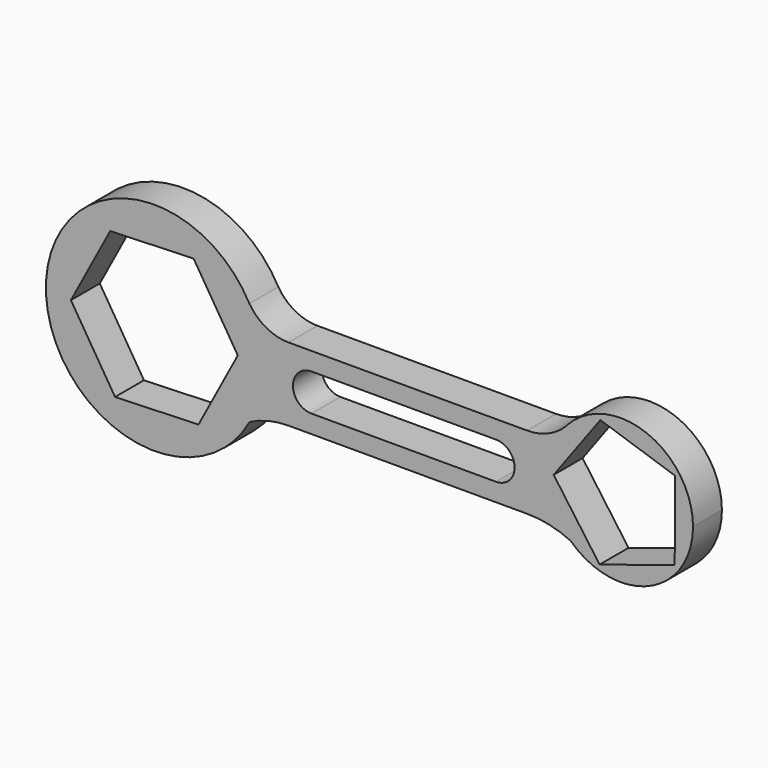
from build123d import *

# Parameters (mm, degrees)
F1_DEPTH = 10


with BuildPart() as f1:
    # F0 (on Front) → F1 (new body)
    with BuildSketch(Plane.XZ):
        with BuildLine():
            ThreePointArc((-18.809564, -5.689221), (-16.080924, 1.258969), (-15.15221, 8.665743))
            ThreePointArc((-15.15221, 8.665743), (-16.09452, 16.125679), (-18.862252, 23.116976))
            ThreePointArc((-18.862252, 23.116976), (-75.15216, 8.610871), (-18.809564, -5.689221))
        make_face()
        Polygon((-57.364749, 28.266438), (-34.28378, 29.04246), (-22.071241, 9.441765), (-32.939671, -10.934951), (-56.02064, -11.710973), (-68.233179, 7.889722), align=None, mode=Mode.SUBTRACT)
        with BuildLine():
            ThreePointArc((-18.862252, 23.116976), (-16.09452, 16.125679), (-15.15221, 8.665743))
            ThreePointArc((-15.15221, 8.665743), (-16.080924, 1.258969), (-18.809564, -5.689221))
            ThreePointArc((-18.809564, -5.689221), (-13.579666, -3.750609), (-8.041029, -3.092171))
            Line((-8.041029, -3.092171), (57.985872, -3.092171))
            ThreePointArc((57.985872, -3.092171), (64.138921, -3.768025), (69.998565, -5.763358))
            ThreePointArc((69.998565, -5.763358), (63.86701, 7.789143), (68.788136, 21.82655))
            ThreePointArc((68.788136, 21.82655), (63.866688, 18.386524), (57.985872, 17.173909))
            Line((57.985872, 17.173909), (-8.041029, 17.173909))
            ThreePointArc((-8.041029, 17.173909), (-14.213932, 18.757451), (-18.862252, 23.116976))
        make_face()
        with BuildLine():
            ThreePointArc((-1.69053, 1.907829), (-6.82357, 7.040869), (-1.69053, 12.173909))
            Line((-1.69053, 12.173909), (49.362469, 12.173909))
            ThreePointArc((49.362469, 12.173909), (54.495509, 7.040869), (49.362469, 1.907829))
            Line((49.362469, 1.907829), (-1.69053, 1.907829))
        make_face(mode=Mode.SUBTRACT)
        with BuildLine():
            ThreePointArc((69.236276, 22.322377), (69.014993, 22.071945), (68.788136, 21.82655))
            ThreePointArc((68.788136, 21.82655), (63.86701, 7.789143), (69.998565, -5.763358))
            ThreePointArc((69.998565, -5.763358), (91.690478, -9.732415), (103.84779, 8.665743))
            ThreePointArc((103.84779, 8.665743), (91.188421, 27.269913), (69.236276, 22.322377))
        make_face()
        Polygon((65.307101, 8.776522), (78.223759, 26.333219), (98.912637, 19.474065), (98.782408, -2.321822), (78.013045, -8.933267), align=None, mode=Mode.SUBTRACT)
    extrude(amount=F1_DEPTH)


solid = f1.part
